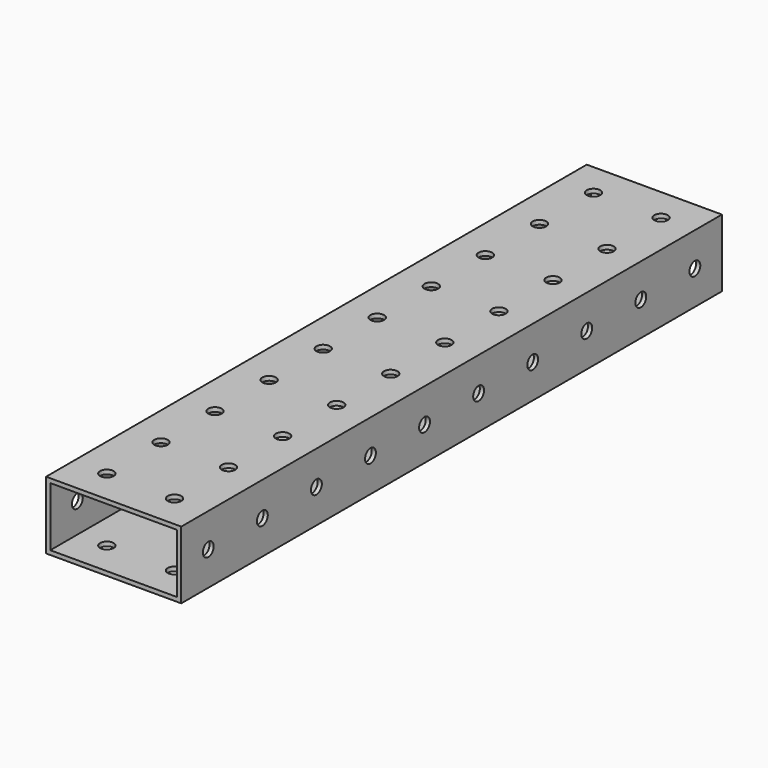
from build123d import *

# Parameters (mm, degrees)
F0_W     = 50.8
F0_H     = 25.4
F0_W_2   = 47.625
F0_H_2   = 22.225
F1_DEPTH = 254
F3_D     = 5.1054
F5_D     = 5.1054


with BuildPart() as f1:
    # F0 (on Front) → F1 (new body)
    with BuildSketch(Plane.XZ):
        Rectangle(F0_W, F0_H)
        Rectangle(F0_W_2, F0_H_2, mode=Mode.SUBTRACT)
    extrude(amount=F1_DEPTH)

    # F3 (through all)
    with Locations(Plane.YZ.offset(25.4)):
        with Locations((-12.7, 0), (-38.1, 0), (-63.5, 0), (-88.9, 0), (-114.3, 0), (-241.3, 0), (-139.7, 0), (-165.1, 0), (-190.5, 0), (-215.9, 0)):
            Hole(F3_D / 2)

    # F5 (through all)
    with Locations(Plane(origin=(0, 0, -12.7), x_dir=(1, 0, 0), z_dir=(0, 0, -1))):
        with Locations((-12.7, 63.5), (-12.7, 88.9), (-12.7, 114.3), (-12.7, 139.7), (-12.7, 165.1), (-12.7, 190.5), (-12.7, 215.9), (12.7, 241.3), (12.7, 139.7), (12.7, 88.9), (12.7, 190.5), (12.7, 114.3), (12.7, 63.5), (-12.7, 241.3), (12.7, 38.1), (12.7, 215.9), (12.7, 12.7), (-12.7, 12.7), (12.7, 165.1), (-12.7, 38.1)):
            Hole(F5_D / 2)


solid = f1.part
